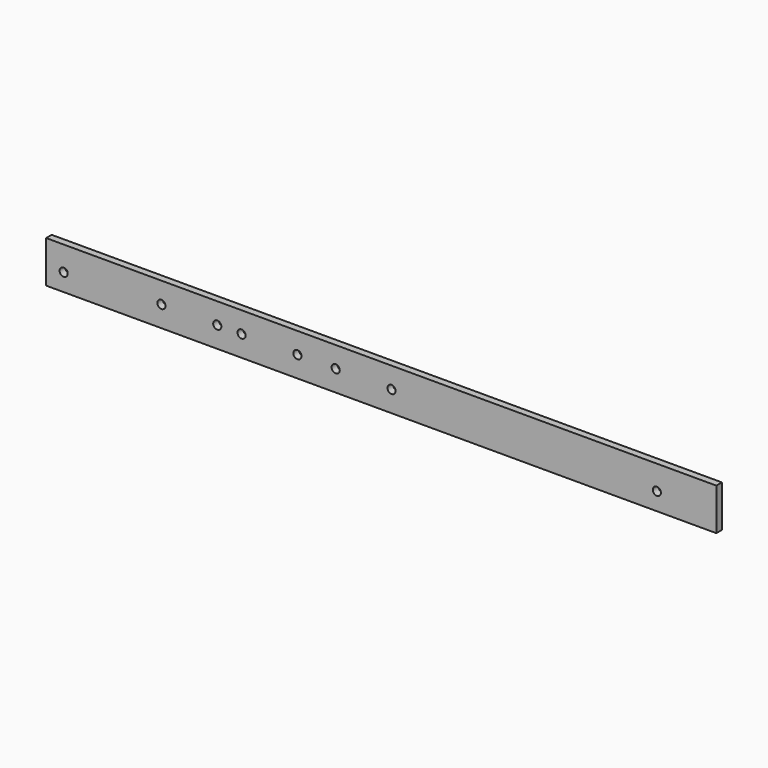
from build123d import *

# Parameters (mm, degrees)
F0_W     = 304.8
F0_H     = 19.05
F1_DEPTH = 3.175
F2_R     = 1.855
F3_DEPTH = 3.175


with BuildPart() as f1:
    # F0 (on Front) → F1 (new body)
    with BuildSketch(Plane.XZ):
        with Locations((-152.4, 9.525)):
            Rectangle(F0_W, F0_H)
    extrude(amount=F1_DEPTH)

    # F2 (on face) → F3 (cut)
    with BuildSketch(Plane.XZ.offset(3.175)):
        with Locations((-296.8, 8)):
            Circle(F2_R)
        with Locations((-215.9, 9.525)):
            Circle(F2_R)
        with Locations((-252.35, 9.525)):
            Circle(F2_R)
        with Locations((-226.95, 9.525)):
            Circle(F2_R)
        with Locations((-190.5, 9.525)):
            Circle(F2_R)
        with Locations((-173.1, 9.525)):
            Circle(F2_R)
        with Locations((-147.7, 9.525)):
            Circle(F2_R)
        with Locations((-27.05, 8)):
            Circle(F2_R)
    extrude(amount=-F3_DEPTH, mode=Mode.SUBTRACT)


solid = f1.part
